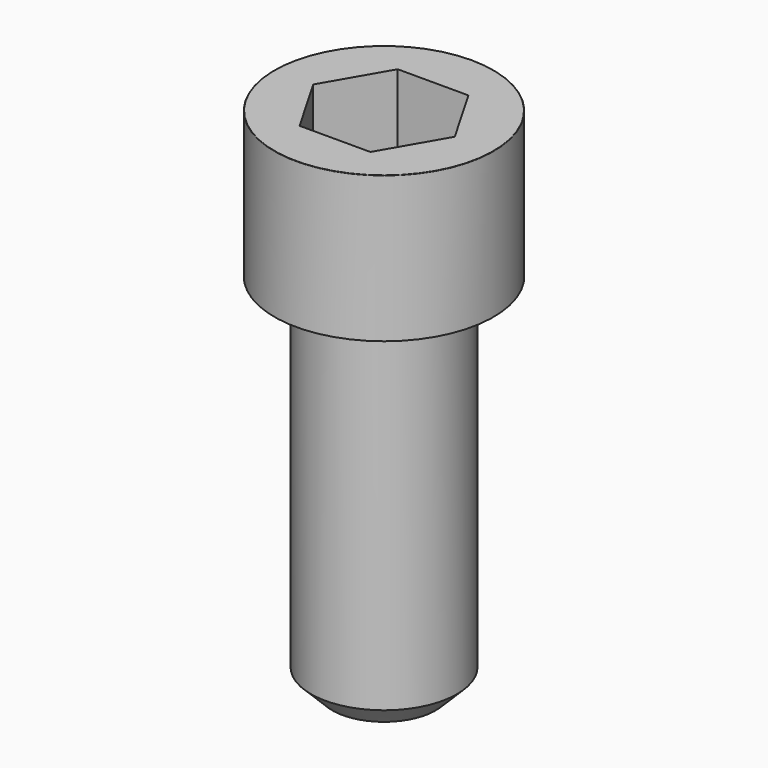
from build123d import *

# Parameters (mm, degrees)
POCKET_DEPTH = 10.07


with BuildPart() as part:
    # Sketch → Revolve (revolve)
    with BuildSketch(Plane.YZ):
        with BuildLine():
            Line((5.999, 0), (9, 0))
            Line((9, 0), (9, 11.97229))
            ThreePointArc((9, 11.97229), (8.991884, 11.991884), (8.97229, 12))
            Line((8.97229, 12), (0, 12))
            Line((0, -30), (0, 12))
            Line((4.25, -30), (0, -30))
            Line((6, -28.25), (4.25, -30))
            Line((6, -0.2), (6, -28.25))
            Line((5.999, 0), (6, -0.2))
        make_face()
    revolve(axis=Axis((0, 0, 0), (0, 0, 1)))

    # Sketch001 → Pocket (cut)
    with BuildSketch(Plane.XY.offset(12)):
        Polygon((5.813917, 0), (2.906959, 5.035), (-2.906959, 5.035), (-5.813917, 0), (-2.906959, -5.035), (2.906959, -5.035), align=None)
    extrude(amount=-POCKET_DEPTH, mode=Mode.SUBTRACT)


solid = part.part
